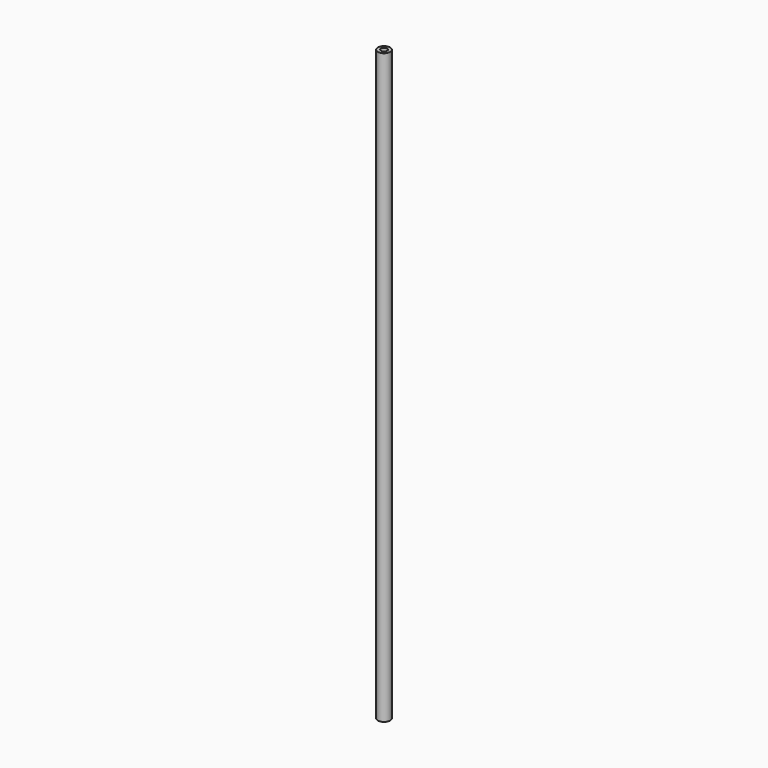
from build123d import *

# Parameters (mm, degrees)
F0_R          = 1.27
F1_DEPTH      = 121.92
F2_R          = 0.635
F3_DEPTH      = 121.92
F3_DEPTH_BACK = 25.4


with BuildPart() as f1:
    # F0 (on Top) → F1 (new body)
    with BuildSketch(Plane.XY):
        with Locations((-33.097662, 17.268345)):
            Circle(F0_R)
    extrude(amount=F1_DEPTH)

    # F2 (on face) → F3 (cut, two sides)
    with BuildSketch(Plane.XY.offset(121.92)) as f3_sk:
        with Locations((-33.097662, 17.268345)):
            Circle(F2_R)
    extrude(amount=-F3_DEPTH, mode=Mode.SUBTRACT)
    extrude(f3_sk.sketch, amount=-F3_DEPTH_BACK, mode=Mode.SUBTRACT)


solid = f1.part
